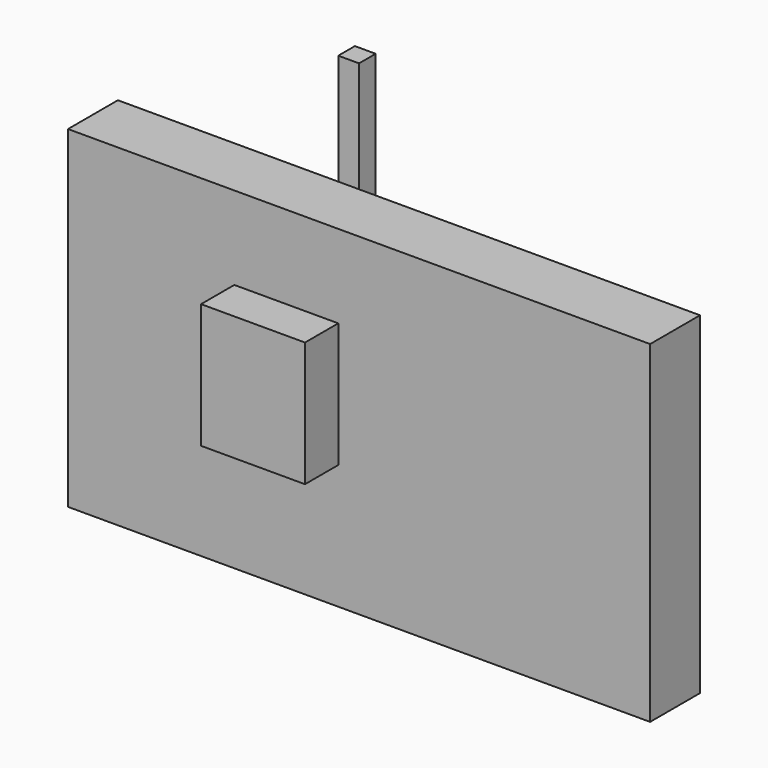
from build123d import *

# Parameters (mm, degrees)
F0_W          = 88.9
F0_H          = 50.8
F1_DEPTH      = 9.525
F2_W          = 15.875
F2_H          = 19.05
F3_DEPTH      = 6.35
F3_DEPTH_BACK = 22.225
F4_W          = 3.175
F4_H          = 3.175
F5_DEPTH      = 25.4
F5_DEPTH_BACK = 25.4


with BuildPart() as f1:
    # F0 (on Front) → F1 (new body)
    with BuildSketch(Plane.XZ):
        with Locations((1.452832, 0.068092)):
            Rectangle(F0_W, F0_H)
    extrude(amount=F1_DEPTH)

    # F2 (on face) → F3 (join, two sides)
    with BuildSketch(Plane.XZ.offset(9.525)) as f3_sk:
        with Locations((-9.659668, 3.243092)):
            Rectangle(F2_W, F2_H)
    extrude(amount=F3_DEPTH)
    extrude(f3_sk.sketch, amount=-F3_DEPTH_BACK)

    # F4 (on face) → F5 (join, two sides)
    with BuildSketch(Plane.XY.offset(12.768092)) as f5_sk:
        with Locations((-12.834668, 7.9375)):
            Rectangle(F4_W, F4_H)
    extrude(amount=F5_DEPTH)
    extrude(f5_sk.sketch, amount=-F5_DEPTH_BACK)


solid = f1.part
